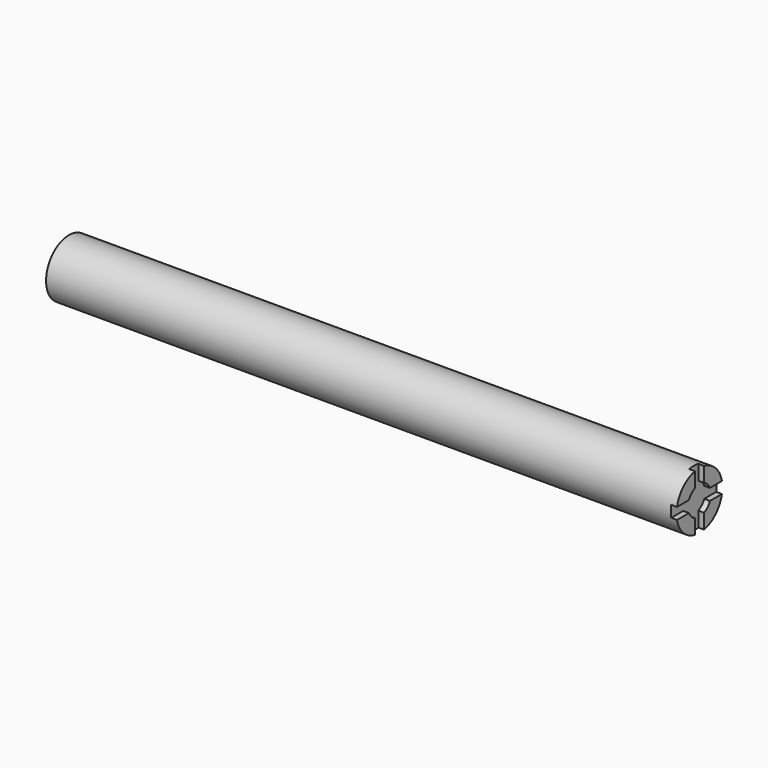
from build123d import *

# Parameters (mm, degrees)
F0_W     = 39.190798
F0_H     = 12.7
F0_W_2   = 212.120296
F3_W     = 5.08
F3_H     = 13.252163
F3_W_2   = 19.028907
F3_H_2   = 5.08
F4_DEPTH = 2.54
F5_DEPTH = 2.54


with BuildPart() as f1:
    # F0 (on Front) → F1 (revolve)
    with BuildSketch(Plane.XZ):
        with Locations((19.595399, 6.35)):
            Rectangle(F0_W, F0_H)
        with Locations((145.250946, 6.35)):
            Rectangle(F0_W_2, F0_H)
        Polygon((279.4, 12.7), (251.311094, 12.7), (251.311094, 0), (276.86, 0), (276.86, 6.35), (279.4, 6.35), align=None)
    revolve(axis=Axis((146.856308, 0, 0), (1, 0, 0)))

    # F3 (on face) → F4 (cut)
    with BuildSketch(Plane.YZ.offset(279.4)):
        with Locations((0, -9.166081)):
            Rectangle(F3_W, F3_H)
        with Locations((12.054453, 0)):
            Rectangle(F3_W_2, F3_H_2)
        with Locations((-12.054453, 0)):
            Rectangle(F3_W_2, F3_H_2)
        with Locations((0, 9.166081)):
            Rectangle(F3_W, F3_H)
    extrude(amount=-F4_DEPTH, mode=Mode.SUBTRACT)

    # F3 (on face) → F5 (cut)
    with BuildSketch(Plane.YZ.offset(279.4)):
        with Locations((0, -9.166081)):
            Rectangle(F3_W, F3_H)
        with Locations((12.054453, 0)):
            Rectangle(F3_W_2, F3_H_2)
        with Locations((-12.054453, 0)):
            Rectangle(F3_W_2, F3_H_2)
        with Locations((0, 9.166081)):
            Rectangle(F3_W, F3_H)
    extrude(amount=-F5_DEPTH, mode=Mode.SUBTRACT)


solid = f1.part
